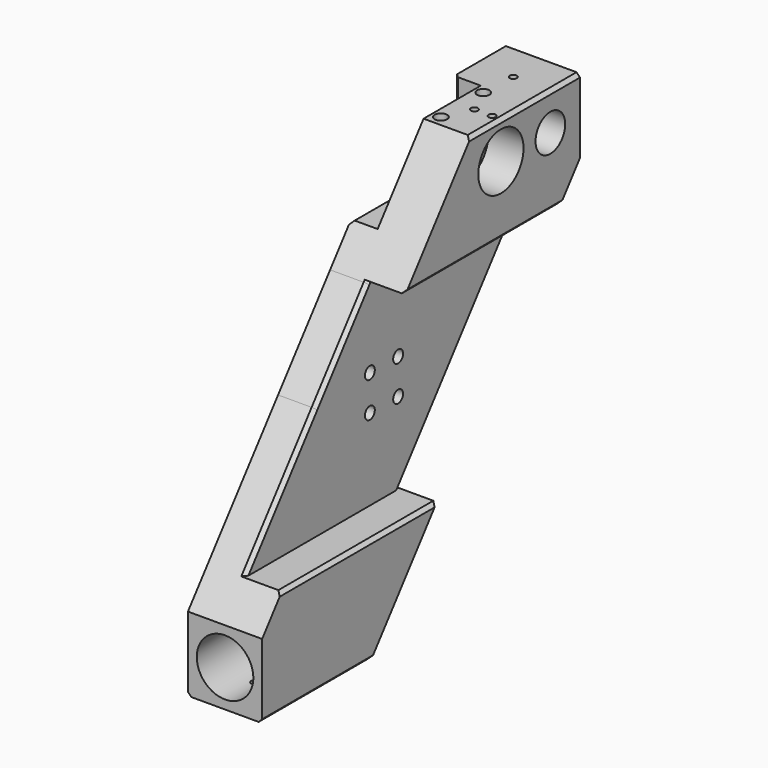
from build123d import *

# Parameters (mm, degrees)
F0_R      = 7.5
F0_R_2    = 10.5
F0_R_3    = 3.5
F1_DEPTH  = 42
F2_R      = 5
F2_R_2    = 3.5
F3_DEPTH  = 10
F4_R      = 3.5
F5_DEPTH  = 21
F6_R      = 16
F7_DEPTH  = 250
F8_R      = 2
F9_DEPTH  = 25
F10_R     = 7.5
F11_DEPTH = 15
F12_R     = 2
F13_DEPTH = 25
F14_R     = 16
F15_DEPTH = 20
F16_SIZE  = 2
F12_R_2   = 3.5
F17_DEPTH = 10


with BuildPart() as f1:
    # F0 (on Right) → F1 (new body)
    with BuildSketch(Plane.YZ):
        Polygon((112.5, 74.2), (112.5, 116.2), (35.5, 116.2), (-11.89577, 55.225982), (48.724809, -7.845921), align=None)
        with Locations((56.5, 95.2)):
            Circle(F0_R, mode=Mode.SUBTRACT)
        with Locations((91.5, 95.2)):
            Circle(F0_R_2, mode=Mode.SUBTRACT)
        Polygon((48.724809, -7.845921), (-11.89577, 55.225982), (-48.724809, 7.845921), (11.89577, -55.225982), align=None)
        with Locations((-10, -10)):
            Circle(F0_R_3, mode=Mode.SUBTRACT)
        with Locations((10, -10)):
            Circle(F0_R_3, mode=Mode.SUBTRACT)
        with Locations((-10, 10)):
            Circle(F0_R_3, mode=Mode.SUBTRACT)
        with Locations((10, 10)):
            Circle(F0_R_3, mode=Mode.SUBTRACT)
        Polygon((11.89577, -55.225982), (-48.724809, 7.845921), (-112.5, -74.2), (-112.5, -116.2), (-35.5, -116.2), align=None)
    extrude(amount=-F1_DEPTH)

    # F2 (on face) → F3 (cut)
    with BuildSketch(Plane(origin=(-42, 0, 0), x_dir=(0, -1, 0), z_dir=(-1, 0, 0))):
        with Locations((-10, 10)):
            Circle(F2_R)
        with Locations((-10, 10)):
            Circle(F2_R_2, mode=Mode.SUBTRACT)
        with Locations((-10, -10)):
            Circle(F2_R)
        with Locations((-10, -10)):
            Circle(F2_R_2, mode=Mode.SUBTRACT)
        with Locations((10, 10)):
            Circle(F2_R)
        with Locations((10, 10)):
            Circle(F2_R_2, mode=Mode.SUBTRACT)
        with Locations((10, -10)):
            Circle(F2_R)
        with Locations((10, -10)):
            Circle(F2_R_2, mode=Mode.SUBTRACT)
    extrude(amount=-F3_DEPTH, mode=Mode.SUBTRACT)

    # F4 (on face) → F5 (cut)
    with BuildSketch(Plane.YZ):
        Polygon((11.138655, -56.2), (98.508403, 56.2), (-11.138655, 56.2), (-98.508403, -56.2), align=None)
        with Locations((-10, -10)):
            Circle(F4_R, mode=Mode.SUBTRACT)
        with Locations((10, -10)):
            Circle(F4_R, mode=Mode.SUBTRACT)
        with Locations((-10, 10)):
            Circle(F4_R, mode=Mode.SUBTRACT)
        with Locations((10, 10)):
            Circle(F4_R, mode=Mode.SUBTRACT)
    extrude(amount=-F5_DEPTH, mode=Mode.SUBTRACT)

    # F6 (on face) → F7 (cut)
    with BuildSketch(Plane(origin=(0, 112.5, 0), x_dir=(-1, 0, 0), z_dir=(0, 1, 0))):
        with Locations((21, -95.2)):
            Circle(F6_R)
    extrude(amount=-F7_DEPTH, mode=Mode.SUBTRACT)

    # F8 (on face) → F9 (cut)
    with BuildSketch(Plane(origin=(0, 0, -116.2), x_dir=(1, 0, 0), z_dir=(0, 0, -1))):
        with Locations((-21, 49.5)):
            Circle(F8_R)
        with Locations((-21, 91.5)):
            Circle(F8_R)
    extrude(amount=-F9_DEPTH, mode=Mode.SUBTRACT)

    # F10 (on face) → F11 (cut)
    with BuildSketch(Plane(origin=(-42, 0, 0), x_dir=(0, -1, 0), z_dir=(-1, 0, 0))):
        Polygon((-35.5, 116.2), (-76, 116.2), (-76, 74.389189), (-3, 74.389189), align=None)
        with Locations((-56.5, 95.2)):
            Circle(F10_R, mode=Mode.SUBTRACT)
        Polygon((-3, 116.389189), (-76, 116.389189), (-76, 116.2), (-35.5, 116.2), (-3, 74.389189), align=None)
    extrude(amount=-F11_DEPTH, mode=Mode.SUBTRACT)

    # F12 (on face) → F13 (cut)
    with BuildSketch(Plane.XY.offset(116.2)):
        with Locations((-21, 91.5)):
            Circle(F12_R)
        with Locations((-15, 56.5)):
            Circle(F12_R)
        with Locations((-5, 56.5)):
            Circle(F12_R)
    extrude(amount=-F13_DEPTH, mode=Mode.SUBTRACT)

    # F14 (on face) → F15 (cut)
    with BuildSketch(Plane.YZ):
        with Locations((56.5, 95.2)):
            Circle(F14_R)
    extrude(amount=-F15_DEPTH, mode=Mode.SUBTRACT)

    # F16
    f16_edges = [f1.edges().sort_by_distance(p)[0] for p in [
        (0, 43.684874, 56.2),
        (0, -43.684874, -56.2),
        (-42, -74, -116.2),
        (0, -74, -116.2),
        (0, 74, 116.2),
        (-21, -54.823529, 0),
        (-21, 54.823529, 0),
        (-42, 39.5, 74.389189),
        (-42, 76, 95.294595),
    ]]
    chamfer(f16_edges, length=F16_SIZE)

    # F12 (on face) → F17 (cut)
    with BuildSketch(Plane.XY.offset(116.2)):
        with Locations((-22, 71.5)):
            Circle(F12_R_2)
        with Locations((-22, 41.5)):
            Circle(F12_R_2)
    extrude(amount=-F17_DEPTH, mode=Mode.SUBTRACT)


solid = f1.part
